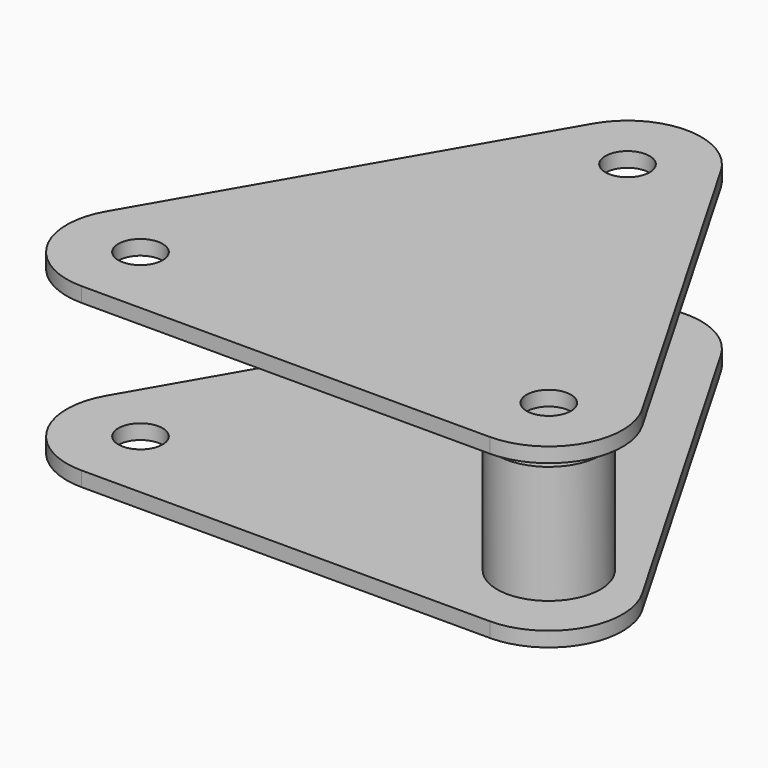
from build123d import *

# Parameters (mm, degrees)
F0_R     = 1.5
F1_DEPTH = 1
F2_START = 10
F2_DEPTH = 1
F4_START = 1
F3_R     = 3.5
F3_R_2   = 1.5
F3_R_3   = 1
F4_DEPTH = 8


with BuildPart() as f1:
    # F0 (on Top) → F1 (new body)
    with BuildSketch(Plane.XY):
        with BuildLine():
            ThreePointArc((-8.6602540378, 0), (-4.3301270189, 2.5), (-4.3301270189, 7.5))
            Line((-4.3301270189, 7.5), (-18.1698729811, 31.4711431703))
            ThreePointArc((-18.1698729811, 31.4711431703), (-22.5, 33.9711431703), (-26.8301270189, 31.4711431703))
            Line((-26.8301270189, 31.4711431703), (-40.6698729811, 7.5))
            ThreePointArc((-40.6698729811, 7.5), (-40.6698729811, 2.5), (-36.3397459622, 0))
            Line((-36.3397459622, 0), (-8.6602540378, 0))
        make_face()
        with Locations((-36.3397459622, 5)):
            Circle(F0_R, mode=Mode.SUBTRACT)
        with Locations((-8.6602540378, 5)):
            Circle(F0_R, mode=Mode.SUBTRACT)
        with Locations((-22.5, 28.9711431703)):
            Circle(F0_R, mode=Mode.SUBTRACT)
    extrude(amount=-F1_DEPTH)


with BuildPart() as f2:
    # F0 (on Top) → F2 (new body)
    with BuildSketch(Plane.XY.offset(F2_START)):
        with BuildLine():
            ThreePointArc((-8.6602540378, 0), (-4.3301270189, 2.5), (-4.3301270189, 7.5))
            Line((-4.3301270189, 7.5), (-18.1698729811, 31.4711431703))
            ThreePointArc((-18.1698729811, 31.4711431703), (-22.5, 33.9711431703), (-26.8301270189, 31.4711431703))
            Line((-26.8301270189, 31.4711431703), (-40.6698729811, 7.5))
            ThreePointArc((-40.6698729811, 7.5), (-40.6698729811, 2.5), (-36.3397459622, 0))
            Line((-36.3397459622, 0), (-8.6602540378, 0))
        make_face()
        with Locations((-36.3397459622, 5)):
            Circle(F0_R, mode=Mode.SUBTRACT)
        with Locations((-8.6602540378, 5)):
            Circle(F0_R, mode=Mode.SUBTRACT)
        with Locations((-22.5, 28.9711431703)):
            Circle(F0_R, mode=Mode.SUBTRACT)
    extrude(amount=F2_DEPTH)


with BuildPart() as f4:
    # F3 (on face) → F4 (new body)
    with BuildSketch(Plane.XY.offset(F4_START)):
        with Locations((-8.6602545295, 5.0000002838)):
            Circle(F3_R)
        with Locations((-8.6602540378, 5)):
            Circle(F3_R_2, mode=Mode.SUBTRACT)
        with Locations((-8.6602540378, 5)):
            Circle(F3_R_2)
        with Locations((-8.6602545295, 5.0000002838)):
            Circle(F3_R_3, mode=Mode.SUBTRACT)
    extrude(amount=F4_DEPTH)


solid = Compound([f1.part, f2.part, f4.part])
